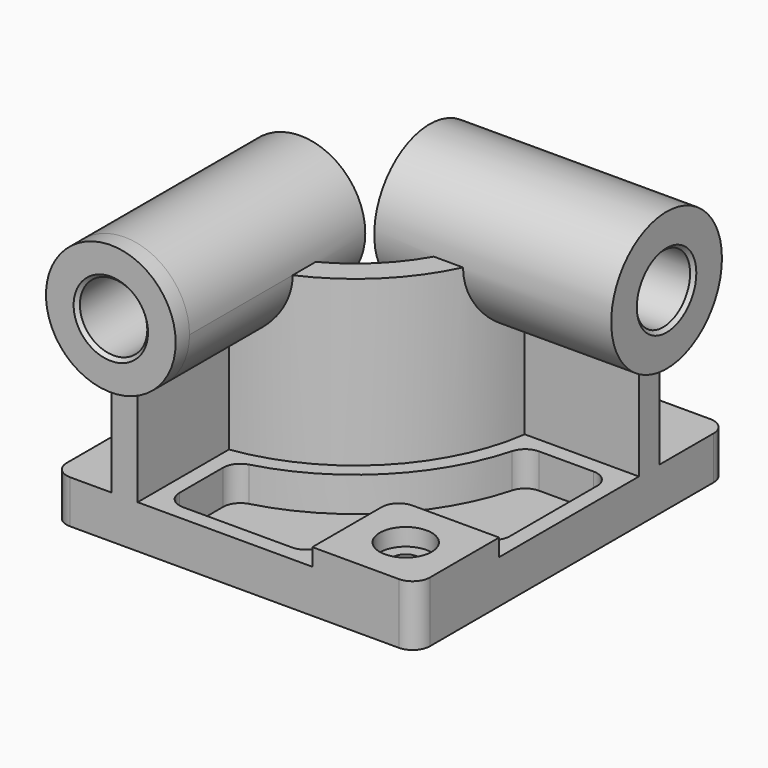
from build123d import *

# Parameters (mm, degrees)
F0_W            = 5334
F0_H            = 5715
F1_DEPTH        = 635
F3_DEPTH        = 2413
F4_R            = 952.5
F5_DEPTH        = 254
F5_DEPTH_BACK   = 3225.8
F6_R            = 1016
F7_DEPTH        = 254
F7_DEPTH_BACK   = 3225.8
F8_W            = 1524
F8_H            = 1524
F9_DEPTH        = 254
F10_R           = 254
F12_DEPTH       = 508
F14_D           = 381
F14_CBORE_D     = 762
F14_CBORE_DEPTH = 254
F15_R           = 254
F16_R           = 495.3
F17_DEPTH       = 5969.001
F18_R           = 495.3
F19_DEPTH       = 5588.001
F20_SIZE        = 50.8
F21_R           = 254


with BuildPart() as f1:
    # F0 (on Top) → F1 (new body)
    with BuildSketch(Plane.XY):
        Rectangle(F0_W, F0_H)
    extrude(amount=F1_DEPTH)

    # F2 (on face) → F3 (join)
    with BuildSketch(Plane.XY.offset(635)):
        with BuildLine():
            Line((-1803.4, -825.5), (-1803.4, -2857.5))
            Line((-1803.4, -2857.5), (-1422.4, -2857.5))
            Line((-1422.4, -2857.5), (-1422.4, -1180.638144))
            ThreePointArc((-1422.4, -1180.638144), (190.216859, -380.716859), (990.138144, 1231.9))
            Line((990.138144, 1231.9), (2667, 1231.9))
            Line((2667, 1231.9), (2667, 1612.9))
            Line((2667, 1612.9), (635, 1612.9))
            ThreePointArc((635, 1612.9), (-79.190825, -111.309175), (-1803.4, -825.5))
        make_face()
    extrude(amount=F3_DEPTH)

    # F4 (on face) → F5 (join, two sides)
    with BuildSketch(Plane.XZ.offset(2857.5)) as f5_sk:
        with Locations((-1612.9, 3048)):
            Circle(F4_R)
    extrude(amount=F5_DEPTH)
    extrude(f5_sk.sketch, amount=-F5_DEPTH_BACK)

    # F6 (on face) → F7 (join, two sides)
    with BuildSketch(Plane.YZ.offset(2667)) as f7_sk:
        with Locations((1422.4, 3048)):
            Circle(F6_R)
    extrude(amount=F7_DEPTH)
    extrude(f7_sk.sketch, amount=-F7_DEPTH_BACK)

    # F8 (on face) → F9 (join)
    with BuildSketch(Plane.XY.offset(635)):
        with Locations((1905, -2095.5)):
            Rectangle(F8_W, F8_H)
    extrude(amount=F9_DEPTH)

    # F10
    f10_edges = [f1.edges().sort_by_distance(p)[0] for p in [
        (1143, -1333.5, 762),
    ]]
    fillet(f10_edges, radius=F10_R)

    # F11 (on face) → F12 (cut)
    with BuildSketch(Plane.XY.offset(635)):
        with BuildLine():
            ThreePointArc((1183.017894, 1003.3), (351.861469, -542.361469), (-1193.8, -1373.517894))
            Line((-1193.8, -1373.517894), (-1193.8, -2628.9))
            Line((-1193.8, -2628.9), (914.4, -2628.9))
            Line((914.4, -2628.9), (914.4, -1587.5))
            ThreePointArc((914.4, -1587.5), (1055.750267, -1246.250267), (1397, -1104.9))
            Line((1397, -1104.9), (2438.4, -1104.9))
            Line((2438.4, -1104.9), (2438.4, 1003.3))
            Line((2438.4, 1003.3), (1183.017894, 1003.3))
        make_face()
    extrude(amount=-F12_DEPTH, mode=Mode.SUBTRACT)

    # F14 (through all)
    with Locations(Plane.XY.offset(889)):
        with Locations((1905, -2095.5)):
            CounterBoreHole(F14_D / 2, F14_CBORE_D / 2, F14_CBORE_DEPTH)

    # F15
    f15_edges = [f1.edges().sort_by_distance(p)[0] for p in [
        (-1193.8, -1373.517894, 381),
        (1183.017894, 1003.3, 381),
        (2438.4, 1003.3, 381),
        (2438.4, -1104.9, 381),
        (914.4, -2628.9, 381),
        (-1193.8, -2628.9, 381),
    ]]
    fillet(f15_edges, radius=F15_R)

    # F16 (on face) → F17 (cut, through all)
    with BuildSketch(Plane.XZ.offset(3111.5)):
        with Locations((-1612.9, 3048)):
            Circle(F16_R)
    extrude(amount=-F17_DEPTH, mode=Mode.SUBTRACT)

    # F18 (on face) → F19 (cut, through all)
    with BuildSketch(Plane.YZ.offset(2921)):
        with Locations((1422.4, 3048)):
            Circle(F18_R)
    extrude(amount=-F19_DEPTH, mode=Mode.SUBTRACT)

    # F20
    f20_edges = [f1.edges().sort_by_distance(p)[0] for p in [
        (-2108.2, -3111.5, 3048),
        (2921, 927.1, 3048),
        (-558.8, 927.1, 3048),
        (-2108.2, 368.3, 3048),
    ]]
    chamfer(f20_edges, length=F20_SIZE)

    # F21
    f21_edges = [f1.edges().sort_by_distance(p)[0] for p in [
        (-2667, -2857.5, 317.5),
        (2667, -2857.5, 444.5),
        (2667, 2857.5, 317.5),
        (-2667, 2857.5, 317.5),
    ]]
    fillet(f21_edges, radius=F21_R)


solid = f1.part
